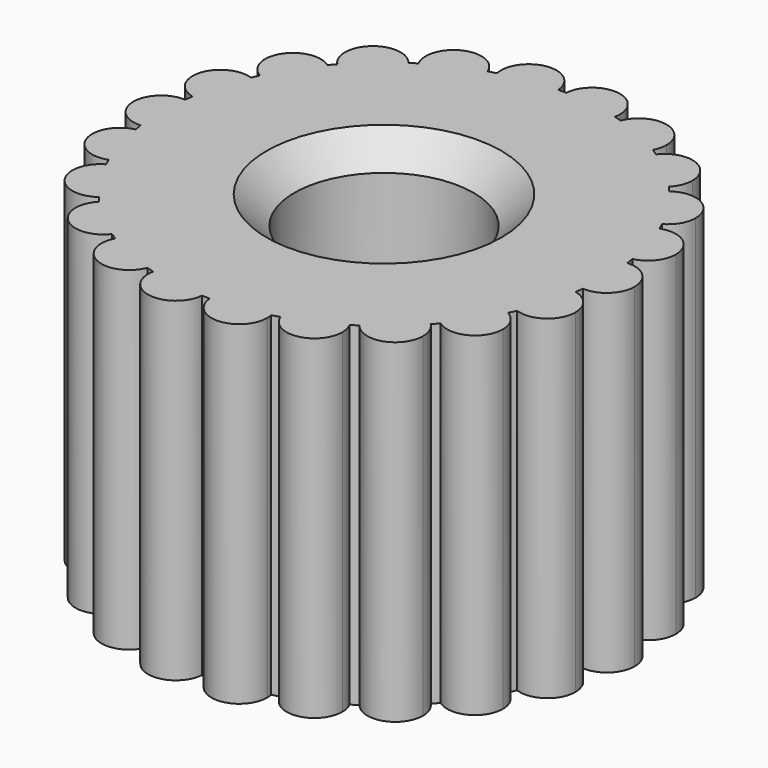
from build123d import *

# Parameters (mm, degrees)
F0_R     = 2.5527
F1_DEPTH = 9.525
F2_SIZE  = 0.79375


with BuildPart() as f1:
    # F0 (on Top) → F1 (new body)
    with BuildSketch(Plane.XY):
        with BuildLine():
            ThreePointArc((6.300390625, -0.7921981901), (5.55625, 0), (6.300390625, 0.7921981901))
            ThreePointArc((6.300390625, 0.7921981901), (6.2853661559, 0.903699223), (6.2683685573, 1.0149165628))
            ThreePointArc((6.2683685573, 1.0149165628), (5.3311828346, 1.565376519), (5.8219925141, 2.535133757))
            ThreePointArc((5.8219925141, 2.535133757), (5.7761631705, 2.6378853326), (5.7285205486, 2.7398088117))
            ThreePointArc((5.7285205486, 2.7398088117), (4.6742149418, 3.003935542), (4.8719311944, 4.0726878639))
            ThreePointArc((4.8719311944, 4.0726878639), (4.7990097971, 4.1583656606), (4.7245818738, 4.2427380449))
            ThreePointArc((4.7245818738, 4.2427380449), (3.638569953, 4.1991335725), (3.5271749839, 5.2802970213))
            ThreePointArc((3.5271749839, 5.2802970213), (3.4330691908, 5.3419599335), (3.3378856738, 5.4019458743))
            ThreePointArc((3.3378856738, 5.4019458743), (2.308149666, 5.0541427742), (1.896668033, 6.0601279172))
            ThreePointArc((1.896668033, 6.0601279172), (1.7890017359, 6.0927803825), (1.6807738276, 6.1235201755))
            ThreePointArc((1.6807738276, 6.1235201755), (0.7907368202, 5.4996953865), (0.1125043181, 6.3490032902))
            ThreePointArc((0.1125043181, 6.3490032902), (0, 6.35), (-0.1125043181, 6.3490032902))
            ThreePointArc((-0.1125043181, 6.3490032902), (-0.110588254, 6.3172103601), (-0.109949223, 6.2853661559))
            ThreePointArc((-0.109949223, 6.2853661559), (-0.8223478399, 5.4957960103), (-1.6807738276, 6.1235201755))
            ThreePointArc((-1.6807738276, 6.1235201755), (-1.7890017359, 6.0927803825), (-1.896668033, 6.0601279172))
            ThreePointArc((-1.896668033, 6.0601279172), (-1.8573789924, 5.9205547059), (-1.8441353326, 5.7761631705))
            ThreePointArc((-1.8441353326, 5.7761631705), (-2.4449944416, 5.0062072194), (-3.3378856738, 5.4019458743))
            ThreePointArc((-3.3378856738, 5.4019458743), (-3.4330691908, 5.3419599335), (-3.5271749839, 5.2802970213))
            ThreePointArc((-3.5271749839, 5.2802970213), (-3.4063528076, 5.0530092685), (-3.3646156606, 4.7990097971))
            ThreePointArc((-3.3646156606, 4.7990097971), (-3.857861964, 4.0643421234), (-4.7245818738, 4.2427380449))
            ThreePointArc((-4.7245818738, 4.2427380449), (-4.7990097971, 4.1583656606), (-4.8719311944, 4.0726878639))
            ThreePointArc((-4.8719311944, 4.0726878639), (-4.6337493807, 3.7915059013), (-4.5482099335, 3.4330691908))
            ThreePointArc((-4.5482099335, 3.4330691908), (-4.9399608201, 2.7486455097), (-5.7285205486, 2.7398088117))
            ThreePointArc((-5.7285205486, 2.7398088117), (-5.7761631705, 2.6378853326), (-5.8219925141, 2.535133757))
            ThreePointArc((-5.8219925141, 2.535133757), (-5.4427892544, 2.2445789478), (-5.2990303825, 1.7890017359))
            ThreePointArc((-5.2990303825, 1.7890017359), (-5.5974693949, 1.1687549398), (-6.2683685573, 1.0149165628))
            ThreePointArc((-6.2683685573, 1.0149165628), (-6.2853661559, 0.903699223), (-6.300390625, 0.7921981901))
            ThreePointArc((-6.300390625, 0.7921981901), (-5.7714602417, 0.543443475), (-5.55625, 0))
            ThreePointArc((-5.55625, 0), (-5.7714602417, -0.543443475), (-6.300390625, -0.7921981901))
            ThreePointArc((-6.300390625, -0.7921981901), (-6.2853661559, -0.903699223), (-6.2683685573, -1.0149165628))
            ThreePointArc((-6.2683685573, -1.0149165628), (-5.5974693949, -1.1687549398), (-5.2990303825, -1.7890017359))
            ThreePointArc((-5.2990303825, -1.7890017359), (-5.4427892544, -2.2445789478), (-5.8219925141, -2.535133757))
            ThreePointArc((-5.8219925141, -2.535133757), (-5.7761631705, -2.6378853326), (-5.7285205486, -2.7398088117))
            ThreePointArc((-5.7285205486, -2.7398088117), (-4.9399608201, -2.7486455097), (-4.5482099335, -3.4330691908))
            ThreePointArc((-4.5482099335, -3.4330691908), (-4.6337493807, -3.7915059013), (-4.8719311944, -4.0726878639))
            ThreePointArc((-4.8719311944, -4.0726878639), (-4.7990097971, -4.1583656606), (-4.7245818738, -4.2427380449))
            ThreePointArc((-4.7245818738, -4.2427380449), (-3.857861964, -4.0643421234), (-3.3646156606, -4.7990097971))
            ThreePointArc((-3.3646156606, -4.7990097971), (-3.4063528076, -5.0530092685), (-3.5271749839, -5.2802970213))
            ThreePointArc((-3.5271749839, -5.2802970213), (-3.4330691908, -5.3419599335), (-3.3378856738, -5.4019458743))
            ThreePointArc((-3.3378856738, -5.4019458743), (-2.4449944416, -5.0062072194), (-1.8441353326, -5.7761631705))
            ThreePointArc((-1.8441353326, -5.7761631705), (-1.8573789924, -5.9205547059), (-1.896668033, -6.0601279172))
            ThreePointArc((-1.896668033, -6.0601279172), (-1.7890017359, -6.0927803825), (-1.6807738276, -6.1235201755))
            ThreePointArc((-1.6807738276, -6.1235201755), (-0.8223478399, -5.4957960103), (-0.109949223, -6.2853661559))
            ThreePointArc((-0.109949223, -6.2853661559), (-0.110588254, -6.3172103601), (-0.1125043181, -6.3490032902))
            ThreePointArc((-0.1125043181, -6.3490032902), (0, -6.35), (0.1125043181, -6.3490032902))
            ThreePointArc((0.1125043181, -6.3490032902), (0.7907368202, -5.4996953865), (1.6807738276, -6.1235201755))
            ThreePointArc((1.6807738276, -6.1235201755), (1.7890017359, -6.0927803825), (1.896668033, -6.0601279172))
            ThreePointArc((1.896668033, -6.0601279172), (2.308149666, -5.0541427742), (3.3378856738, -5.4019458743))
            ThreePointArc((3.3378856738, -5.4019458743), (3.4330691908, -5.3419599335), (3.5271749839, -5.2802970213))
            ThreePointArc((3.5271749839, -5.2802970213), (3.638569953, -4.1991335725), (4.7245818738, -4.2427380449))
            ThreePointArc((4.7245818738, -4.2427380449), (4.7990097971, -4.1583656606), (4.8719311944, -4.0726878639))
            ThreePointArc((4.8719311944, -4.0726878639), (4.6742149418, -3.003935542), (5.7285205486, -2.7398088117))
            ThreePointArc((5.7285205486, -2.7398088117), (5.7761631705, -2.6378853326), (5.8219925141, -2.535133757))
            ThreePointArc((5.8219925141, -2.535133757), (5.3311828346, -1.565376519), (6.2683685573, -1.0149165628))
            ThreePointArc((6.2683685573, -1.0149165628), (6.2853661559, -0.903699223), (6.300390625, -0.7921981901))
        make_face()
        Circle(F0_R, mode=Mode.SUBTRACT)
        with BuildLine():
            ThreePointArc((-3.3646156606, 4.7990097971), (-3.4063528076, 5.0530092685), (-3.5271749839, 5.2802970213))
            ThreePointArc((-3.5271749839, 5.2802970213), (-4.1583656606, 4.7990097971), (-4.7245818738, 4.2427380449))
            ThreePointArc((-4.7245818738, 4.2427380449), (-3.857861964, 4.0643421234), (-3.3646156606, 4.7990097971))
        make_face()
        with BuildLine():
            ThreePointArc((-1.8441353326, 5.7761631705), (-1.8573789924, 5.9205547059), (-1.896668033, 6.0601279172))
            ThreePointArc((-1.896668033, 6.0601279172), (-2.6378853326, 5.7761631705), (-3.3378856738, 5.4019458743))
            ThreePointArc((-3.3378856738, 5.4019458743), (-2.4449944416, 5.0062072194), (-1.8441353326, 5.7761631705))
        make_face()
        with BuildLine():
            ThreePointArc((-0.109949223, 6.2853661559), (-0.110588254, 6.3172103601), (-0.1125043181, 6.3490032902))
            ThreePointArc((-0.1125043181, 6.3490032902), (-0.903699223, 6.2853661559), (-1.6807738276, 6.1235201755))
            ThreePointArc((-1.6807738276, 6.1235201755), (-0.8223478399, 5.4957960103), (-0.109949223, 6.2853661559))
        make_face()
        with BuildLine():
            ThreePointArc((0.1125043181, 6.3490032902), (0.7907368202, 5.4996953865), (1.6807738276, 6.1235201755))
            ThreePointArc((1.6807738276, 6.1235201755), (0.903699223, 6.2853661559), (0.1125043181, 6.3490032902))
        make_face()
        with BuildLine():
            ThreePointArc((1.896668033, 6.0601279172), (2.308149666, 5.0541427742), (3.3378856738, 5.4019458743))
            ThreePointArc((3.3378856738, 5.4019458743), (2.6378853326, 5.7761631705), (1.896668033, 6.0601279172))
        make_face()
        with BuildLine():
            ThreePointArc((3.5271749839, 5.2802970213), (3.638569953, 4.1991335725), (4.7245818738, 4.2427380449))
            ThreePointArc((4.7245818738, 4.2427380449), (4.1583656606, 4.7990097971), (3.5271749839, 5.2802970213))
        make_face()
        with BuildLine():
            ThreePointArc((4.8719311944, 4.0726878639), (4.6742149418, 3.003935542), (5.7285205486, 2.7398088117))
            ThreePointArc((5.7285205486, 2.7398088117), (5.3419599335, 3.4330691908), (4.8719311944, 4.0726878639))
        make_face()
        with BuildLine():
            ThreePointArc((5.8219925141, 2.535133757), (5.3311828346, 1.565376519), (6.2683685573, 1.0149165628))
            ThreePointArc((6.2683685573, 1.0149165628), (6.0927803825, 1.7890017359), (5.8219925141, 2.535133757))
        make_face()
        with BuildLine():
            ThreePointArc((6.300390625, -0.7921981901), (6.3375855209, -0.396875), (6.35, 0))
            ThreePointArc((6.35, 0), (6.3375855209, 0.396875), (6.300390625, 0.7921981901))
            ThreePointArc((6.300390625, 0.7921981901), (5.55625, 0), (6.300390625, -0.7921981901))
        make_face()
        with BuildLine():
            ThreePointArc((5.8219925141, -2.535133757), (6.0927803825, -1.7890017359), (6.2683685573, -1.0149165628))
            ThreePointArc((6.2683685573, -1.0149165628), (5.3311828346, -1.565376519), (5.8219925141, -2.535133757))
        make_face()
        with BuildLine():
            ThreePointArc((4.8719311944, -4.0726878639), (5.3419599335, -3.4330691908), (5.7285205486, -2.7398088117))
            ThreePointArc((5.7285205486, -2.7398088117), (4.6742149418, -3.003935542), (4.8719311944, -4.0726878639))
        make_face()
        with BuildLine():
            ThreePointArc((3.5271749839, -5.2802970213), (4.1583656606, -4.7990097971), (4.7245818738, -4.2427380449))
            ThreePointArc((4.7245818738, -4.2427380449), (3.638569953, -4.1991335725), (3.5271749839, -5.2802970213))
        make_face()
        with BuildLine():
            ThreePointArc((1.896668033, -6.0601279172), (2.6378853326, -5.7761631705), (3.3378856738, -5.4019458743))
            ThreePointArc((3.3378856738, -5.4019458743), (2.308149666, -5.0541427742), (1.896668033, -6.0601279172))
        make_face()
        with BuildLine():
            ThreePointArc((0.1125043181, -6.3490032902), (0.903699223, -6.2853661559), (1.6807738276, -6.1235201755))
            ThreePointArc((1.6807738276, -6.1235201755), (0.7907368202, -5.4996953865), (0.1125043181, -6.3490032902))
        make_face()
        with BuildLine():
            ThreePointArc((-1.6807738276, -6.1235201755), (-0.903699223, -6.2853661559), (-0.1125043181, -6.3490032902))
            ThreePointArc((-0.1125043181, -6.3490032902), (-0.110588254, -6.3172103601), (-0.109949223, -6.2853661559))
            ThreePointArc((-0.109949223, -6.2853661559), (-0.8223478399, -5.4957960103), (-1.6807738276, -6.1235201755))
        make_face()
        with BuildLine():
            ThreePointArc((-3.3378856738, -5.4019458743), (-2.6378853326, -5.7761631705), (-1.896668033, -6.0601279172))
            ThreePointArc((-1.896668033, -6.0601279172), (-1.8573789924, -5.9205547059), (-1.8441353326, -5.7761631705))
            ThreePointArc((-1.8441353326, -5.7761631705), (-2.4449944416, -5.0062072194), (-3.3378856738, -5.4019458743))
        make_face()
        with BuildLine():
            ThreePointArc((-4.7245818738, -4.2427380449), (-4.1583656606, -4.7990097971), (-3.5271749839, -5.2802970213))
            ThreePointArc((-3.5271749839, -5.2802970213), (-3.4063528076, -5.0530092685), (-3.3646156606, -4.7990097971))
            ThreePointArc((-3.3646156606, -4.7990097971), (-3.857861964, -4.0643421234), (-4.7245818738, -4.2427380449))
        make_face()
        with BuildLine():
            ThreePointArc((-5.7285205486, -2.7398088117), (-5.3419599335, -3.4330691908), (-4.8719311944, -4.0726878639))
            ThreePointArc((-4.8719311944, -4.0726878639), (-4.6337493807, -3.7915059013), (-4.5482099335, -3.4330691908))
            ThreePointArc((-4.5482099335, -3.4330691908), (-4.9399608201, -2.7486455097), (-5.7285205486, -2.7398088117))
        make_face()
        with BuildLine():
            ThreePointArc((-6.2683685573, -1.0149165628), (-6.0927803825, -1.7890017359), (-5.8219925141, -2.535133757))
            ThreePointArc((-5.8219925141, -2.535133757), (-5.4427892544, -2.2445789478), (-5.2990303825, -1.7890017359))
            ThreePointArc((-5.2990303825, -1.7890017359), (-5.5974693949, -1.1687549398), (-6.2683685573, -1.0149165628))
        make_face()
        with BuildLine():
            ThreePointArc((-5.55625, 0), (-5.7714602417, 0.543443475), (-6.300390625, 0.7921981901))
            ThreePointArc((-6.300390625, 0.7921981901), (-6.35, 0), (-6.300390625, -0.7921981901))
            ThreePointArc((-6.300390625, -0.7921981901), (-5.7714602417, -0.543443475), (-5.55625, 0))
        make_face()
        with BuildLine():
            ThreePointArc((-5.2990303825, 1.7890017359), (-5.4427892544, 2.2445789478), (-5.8219925141, 2.535133757))
            ThreePointArc((-5.8219925141, 2.535133757), (-6.0927803825, 1.7890017359), (-6.2683685573, 1.0149165628))
            ThreePointArc((-6.2683685573, 1.0149165628), (-5.5974693949, 1.1687549398), (-5.2990303825, 1.7890017359))
        make_face()
        with BuildLine():
            ThreePointArc((-4.5482099335, 3.4330691908), (-4.6337493807, 3.7915059013), (-4.8719311944, 4.0726878639))
            ThreePointArc((-4.8719311944, 4.0726878639), (-5.3419599335, 3.4330691908), (-5.7285205486, 2.7398088117))
            ThreePointArc((-5.7285205486, 2.7398088117), (-4.9399608201, 2.7486455097), (-4.5482099335, 3.4330691908))
        make_face()
        with BuildLine():
            ThreePointArc((-1.6807738276, 6.1235201755), (-0.903699223, 6.2853661559), (-0.1125043181, 6.3490032902))
            ThreePointArc((-0.1125043181, 6.3490032902), (-1.0166616259, 7.0710369254), (-1.6807738276, 6.1235201755))
        make_face()
        with BuildLine():
            ThreePointArc((0.1125043181, 6.3490032902), (0.903699223, 6.2853661559), (1.6807738276, 6.1235201755))
            ThreePointArc((1.6807738276, 6.1235201755), (1.6932693687, 6.2040147728), (1.697449223, 6.2853661559))
            ThreePointArc((1.697449223, 6.2853661559), (0.9355434272, 7.078477125), (0.1125043181, 6.3490032902))
        make_face()
        with BuildLine():
            ThreePointArc((1.896668033, 6.0601279172), (2.6378853326, 5.7761631705), (3.3378856738, 5.4019458743))
            ThreePointArc((3.3378856738, 5.4019458743), (3.4078412837, 5.5832722795), (3.4316353326, 5.7761631705))
            ThreePointArc((3.4316353326, 5.7761631705), (2.782276868, 6.5566695106), (1.896668033, 6.0601279172))
        make_face()
        with BuildLine():
            ThreePointArc((3.5271749839, 5.2802970213), (4.1583656606, 4.7990097971), (4.7245818738, 4.2427380449))
            ThreePointArc((4.7245818738, 4.2427380449), (4.8930333343, 4.4985061006), (4.9521156606, 4.7990097971))
            ThreePointArc((4.9521156606, 4.7990097971), (4.4123651319, 5.5510226501), (3.5271749839, 5.2802970213))
        make_face()
        with BuildLine():
            ThreePointArc((4.8719311944, 4.0726878639), (5.3419599335, 3.4330691908), (5.7285205486, 2.7398088117))
            ThreePointArc((5.7285205486, 2.7398088117), (6.0263836147, 3.0310700775), (6.1357099335, 3.4330691908))
            ThreePointArc((6.1357099335, 3.4330691908), (5.700396644, 4.1412797436), (4.8719311944, 4.0726878639))
        make_face()
        with BuildLine():
            ThreePointArc((5.8219925141, 2.535133757), (6.0927803825, 1.7890017359), (6.2683685573, 1.0149165628))
            ThreePointArc((6.2683685573, 1.0149165628), (6.7130271786, 1.2936907484), (6.8865303825, 1.7890017359))
            ThreePointArc((6.8865303825, 1.7890017359), (6.5483575943, 2.438992864), (5.8219925141, 2.535133757))
        make_face()
        with BuildLine():
            ThreePointArc((6.300390625, 0.7921981901), (6.3375855209, 0.396875), (6.35, 0))
            ThreePointArc((6.35, 0), (6.3375855209, -0.396875), (6.300390625, -0.7921981901))
            ThreePointArc((6.300390625, -0.7921981901), (6.893443475, -0.5785397583), (7.14375, 0))
            ThreePointArc((7.14375, 0), (6.893443475, 0.5785397583), (6.300390625, 0.7921981901))
        make_face()
        with BuildLine():
            ThreePointArc((6.8865303825, -1.7890017359), (6.7130271786, -1.2936907484), (6.2683685573, -1.0149165628))
            ThreePointArc((6.2683685573, -1.0149165628), (6.0927803825, -1.7890017359), (5.8219925141, -2.535133757))
            ThreePointArc((5.8219925141, -2.535133757), (6.5483575943, -2.438992864), (6.8865303825, -1.7890017359))
        make_face()
        with BuildLine():
            ThreePointArc((6.1357099335, -3.4330691908), (6.0263836147, -3.0310700775), (5.7285205486, -2.7398088117))
            ThreePointArc((5.7285205486, -2.7398088117), (5.3419599335, -3.4330691908), (4.8719311944, -4.0726878639))
            ThreePointArc((4.8719311944, -4.0726878639), (5.700396644, -4.1412797436), (6.1357099335, -3.4330691908))
        make_face()
        with BuildLine():
            ThreePointArc((4.9521156606, -4.7990097971), (4.8930333343, -4.4985061006), (4.7245818738, -4.2427380449))
            ThreePointArc((4.7245818738, -4.2427380449), (4.1583656606, -4.7990097971), (3.5271749839, -5.2802970213))
            ThreePointArc((3.5271749839, -5.2802970213), (4.4123651319, -5.5510226501), (4.9521156606, -4.7990097971))
        make_face()
        with BuildLine():
            ThreePointArc((3.4316353326, -5.7761631705), (3.4078412837, -5.5832722795), (3.3378856738, -5.4019458743))
            ThreePointArc((3.3378856738, -5.4019458743), (2.6378853326, -5.7761631705), (1.896668033, -6.0601279172))
            ThreePointArc((1.896668033, -6.0601279172), (2.782276868, -6.5566695106), (3.4316353326, -5.7761631705))
        make_face()
        with BuildLine():
            ThreePointArc((1.697449223, -6.2853661559), (1.6932693687, -6.2040147728), (1.6807738276, -6.1235201755))
            ThreePointArc((1.6807738276, -6.1235201755), (0.903699223, -6.2853661559), (0.1125043181, -6.3490032902))
            ThreePointArc((0.1125043181, -6.3490032902), (0.9355434272, -7.078477125), (1.697449223, -6.2853661559))
        make_face()
        with BuildLine():
            ThreePointArc((-1.6807738276, -6.1235201755), (-1.0166616259, -7.0710369254), (-0.1125043181, -6.3490032902))
            ThreePointArc((-0.1125043181, -6.3490032902), (-0.903699223, -6.2853661559), (-1.6807738276, -6.1235201755))
        make_face()
        with BuildLine():
            ThreePointArc((-3.3378856738, -5.4019458743), (-2.9676209991, -6.4981835668), (-1.896668033, -6.0601279172))
            ThreePointArc((-1.896668033, -6.0601279172), (-2.6378853326, -5.7761631705), (-3.3378856738, -5.4019458743))
        make_face()
        with BuildLine():
            ThreePointArc((-4.7245818738, -4.2427380449), (-4.6781613681, -5.3988860218), (-3.5271749839, -5.2802970213))
            ThreePointArc((-3.5271749839, -5.2802970213), (-4.1583656606, -4.7990097971), (-4.7245818738, -4.2427380449))
        make_face()
        with BuildLine():
            ThreePointArc((-5.7285205486, -2.7398088117), (-6.0097049252, -3.8622028397), (-4.8719311944, -4.0726878639))
            ThreePointArc((-4.8719311944, -4.0726878639), (-5.3419599335, -3.4330691908), (-5.7285205486, -2.7398088117))
        make_face()
        with BuildLine():
            ThreePointArc((-6.2683685573, -1.0149165628), (-6.8543779303, -2.0126269529), (-5.8219925141, -2.535133757))
            ThreePointArc((-5.8219925141, -2.535133757), (-6.0927803825, -1.7890017359), (-6.2683685573, -1.0149165628))
        make_face()
        with BuildLine():
            ThreePointArc((-6.300390625, -0.7921981901), (-6.35, 0), (-6.300390625, 0.7921981901))
            ThreePointArc((-6.300390625, 0.7921981901), (-7.14375, 0), (-6.300390625, -0.7921981901))
        make_face()
        with BuildLine():
            ThreePointArc((-6.2683685573, 1.0149165628), (-6.0927803825, 1.7890017359), (-5.8219925141, 2.535133757))
            ThreePointArc((-5.8219925141, 2.535133757), (-6.8543779303, 2.0126269529), (-6.2683685573, 1.0149165628))
        make_face()
        with BuildLine():
            ThreePointArc((-5.7285205486, 2.7398088117), (-5.3419599335, 3.4330691908), (-4.8719311944, 4.0726878639))
            ThreePointArc((-4.8719311944, 4.0726878639), (-6.0097049252, 3.8622028397), (-5.7285205486, 2.7398088117))
        make_face()
        with BuildLine():
            ThreePointArc((-4.7245818738, 4.2427380449), (-4.1583656606, 4.7990097971), (-3.5271749839, 5.2802970213))
            ThreePointArc((-3.5271749839, 5.2802970213), (-4.6781613681, 5.3988860218), (-4.7245818738, 4.2427380449))
        make_face()
        with BuildLine():
            ThreePointArc((-3.3378856738, 5.4019458743), (-2.6378853326, 5.7761631705), (-1.896668033, 6.0601279172))
            ThreePointArc((-1.896668033, 6.0601279172), (-2.9676209991, 6.4981835668), (-3.3378856738, 5.4019458743))
        make_face()
    extrude(amount=F1_DEPTH)

    # F2
    f2_edges = [f1.edges().sort_by_distance(p)[0] for p in [
        (2.5527, 0, 4.7625),
        (-2.5527, 0, 0),
        (-2.5527, 0, 9.525),
    ]]
    chamfer(f2_edges, length=F2_SIZE)


solid = f1.part
